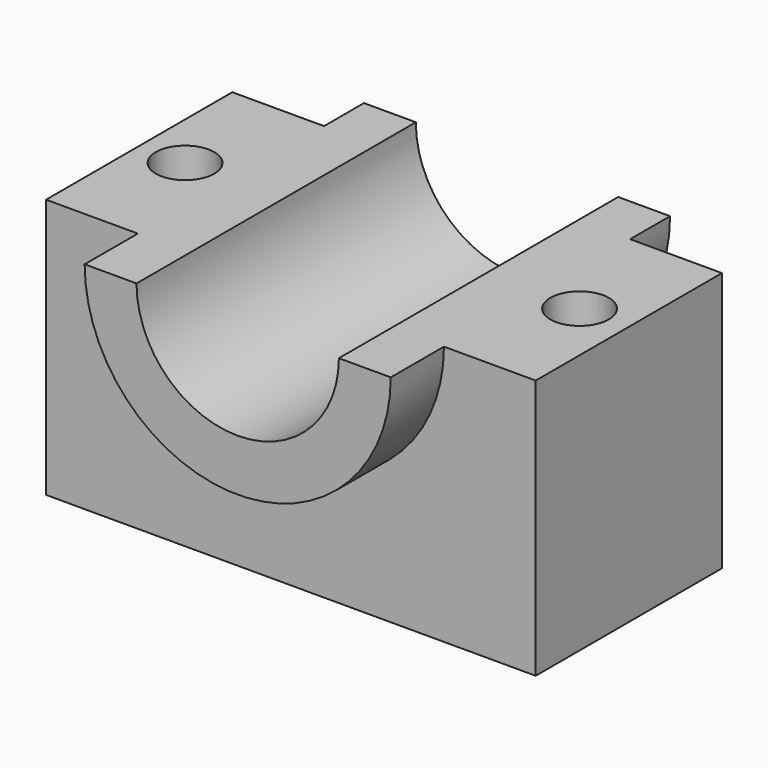
from build123d import *

# Parameters (mm, degrees)
F1_DEPTH      = 88.9
F3_DEPTH      = 25.4
F3_DEPTH_BACK = 107.95
F4_R          = 11.176
F5_DEPTH      = 99.27772


with BuildPart() as f1:
    # F0 (on Front) → F1 (new body)
    with BuildSketch(Plane.XZ):
        with BuildLine():
            Line((93.508288, -49.63886), (93.508288, 49.63886))
            Line((93.508288, 49.63886), (58.457912, 49.63886))
            ThreePointArc((58.457912, 49.63886), (0, -8.819052), (-58.457912, 49.63886))
            Line((-58.457912, 49.63886), (-93.508288, 49.63886))
            Line((-93.508288, 49.63886), (-93.508288, -49.63886))
            Line((-93.508288, -49.63886), (93.508288, -49.63886))
        make_face()
    extrude(amount=F1_DEPTH)

    # F2 (on face) → F3 (join, two sides)
    with BuildSketch(Plane.XZ.offset(88.9)) as f3_sk:
        with BuildLine():
            Line((-38.644901, 49.63886), (-58.457912, 49.63886))
            ThreePointArc((-58.457912, 49.63886), (0, -8.819052), (58.457912, 49.63886))
            Line((58.457912, 49.63886), (38.644901, 49.63886))
            ThreePointArc((38.644901, 49.63886), (0, 10.993959), (-38.644901, 49.63886))
        make_face()
    extrude(amount=F3_DEPTH)
    extrude(f3_sk.sketch, amount=-F3_DEPTH_BACK)

    # F4 (on face) → F5 (cut, through all)
    with BuildSketch(Plane.XY.offset(49.63886)):
        with Locations((-75.9831, -44.45)):
            Circle(F4_R)
        with Locations((74.703217, -44.45)):
            Circle(F4_R)
    extrude(amount=-F5_DEPTH, mode=Mode.SUBTRACT)


solid = f1.part
